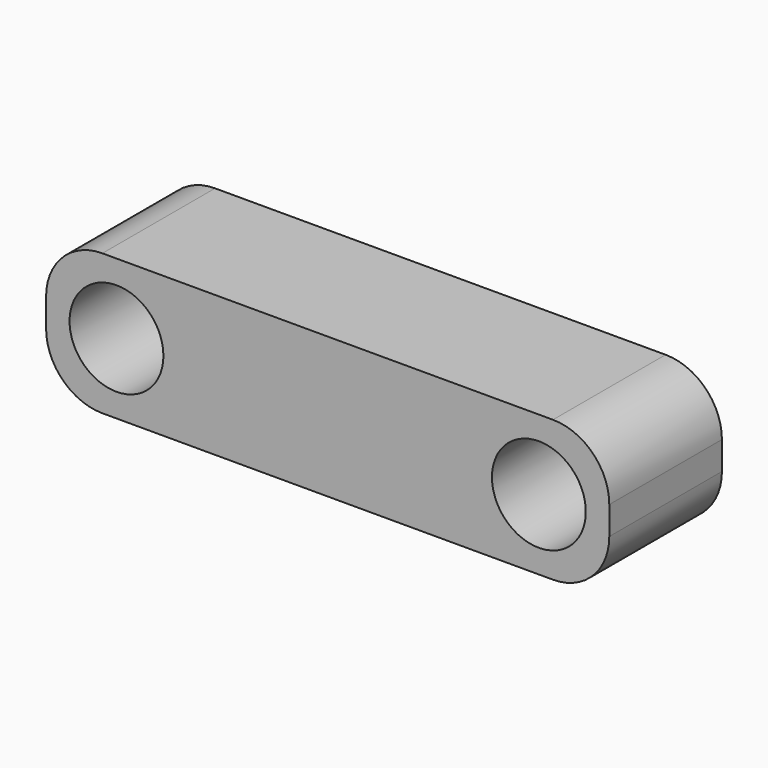
from build123d import *

# Parameters (mm, degrees)
F0_W     = 76.2
F0_H     = 19.05
F1_DEPTH = 19.05
F3_D     = 12.7
F5_D     = 12.7
F6_R     = 7.62


with BuildPart() as f1:
    # F0 (on Top) → F1 (new body)
    with BuildSketch(Plane.XY):
        with Locations((9.621889, -4.491718)):
            Rectangle(F0_W, F0_H)
    extrude(amount=F1_DEPTH)

    # F3 (through all)
    with Locations(Plane(origin=(0, 5.033282, 0), x_dir=(-1, 0, 0), z_dir=(0, 1, 0))):
        with Locations((18.953111, 9.525)):
            Hole(F3_D / 2)

    # F5 (through all)
    with Locations(Plane.XZ.offset(14.016718)):
        with Locations((38.196889, 9.525)):
            Hole(F5_D / 2)

    # F6
    f6_edges = [f1.edges().sort_by_distance(p)[0] for p in [
        (47.721889, -4.491718, 19.05),
        (47.721889, -4.491718, 0),
        (-28.478111, -4.491718, 19.05),
        (-28.478111, -4.491718, 0),
    ]]
    fillet(f6_edges, radius=F6_R)


solid = f1.part
